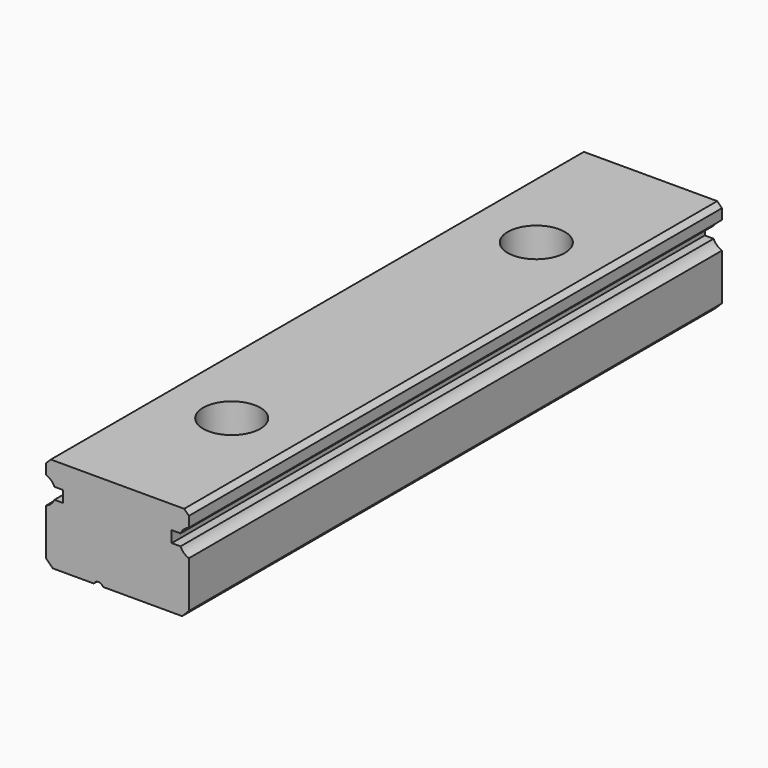
from build123d import *

# Parameters (mm, degrees)
F1_DEPTH       = 70
F3_D           = 3.5
F3_CBORE_D     = 6
F3_CBORE_DEPTH = 4.5


with BuildPart() as f1:
    # F0 (on Front) → F1 (new body)
    with BuildSketch(Plane.XZ):
        with BuildLine():
            Line((-1.510102, -5), (6.792893, -5))
            Line((6.792893, -5), (7.5, -4.292893))
            Line((7.5, -4.292893), (7.5, 0.585786))
            ThreePointArc((7.5, 0.585786), (6.978027, 0.902015), (6.625227, 1.4))
            Line((6.625227, 1.4), (5.7, 1.4))
            Line((5.7, 1.4), (5.7, 2.6))
            Line((5.7, 2.6), (6.625227, 2.6))
            ThreePointArc((6.625227, 2.6), (6.978027, 3.097985), (7.5, 3.414214))
            Line((7.5, 3.414214), (7.5, 4.505025))
            Line((7.5, 4.505025), (7.005025, 5))
            Line((7.005025, 5), (-7.005025, 5))
            Line((-7.005025, 5), (-7.5, 4.505025))
            Line((-7.5, 4.505025), (-7.5, 3.414214))
            ThreePointArc((-7.5, 3.414214), (-6.978027, 3.097985), (-6.625227, 2.6))
            Line((-6.625227, 2.6), (-5.7, 2.6))
            Line((-5.7, 2.6), (-5.7, 1.4))
            Line((-5.7, 1.4), (-6.625227, 1.4))
            ThreePointArc((-6.625227, 1.4), (-6.978027, 0.902015), (-7.5, 0.585786))
            Line((-7.5, 0.585786), (-7.5, -4.292893))
            Line((-7.5, -4.292893), (-6.792893, -5))
            Line((-6.792893, -5), (-2.489898, -5))
            ThreePointArc((-2.489898, -5), (-2, -4.7), (-1.510102, -5))
        make_face()
    extrude(amount=F1_DEPTH)

    # F3 (through all)
    with Locations(Plane.XY.offset(5)):
        with Locations((0, -95), (0, -215), (0, -295), (0, -55), (0, -335), (0, -15), (0, -175), (0, -255), (0, -135), (0, -855), (0, -455), (0, -895), (0, -815), (0, -655), (0, -775), (0, -935), (0, -615), (0, -735), (0, -535), (0, -695), (0, -375), (0, -575), (0, -495), (0, -415), (0, -1175), (0, -1375), (0, -1215), (0, -1615), (0, -1095), (0, -1135), (0, -1655), (0, -1255), (0, -1055), (0, -1295), (0, -975), (0, -1535), (0, -1415), (0, -1695), (0, -1335), (0, -1575), (0, -1495), (0, -1015), (0, -1455), (0, -1895), (0, -1775), (0, -1735), (0, -1975), (0, -1935), (0, -1815), (0, -1855)):
            CounterBoreHole(F3_D / 2, F3_CBORE_D / 2, F3_CBORE_DEPTH)


solid = f1.part
